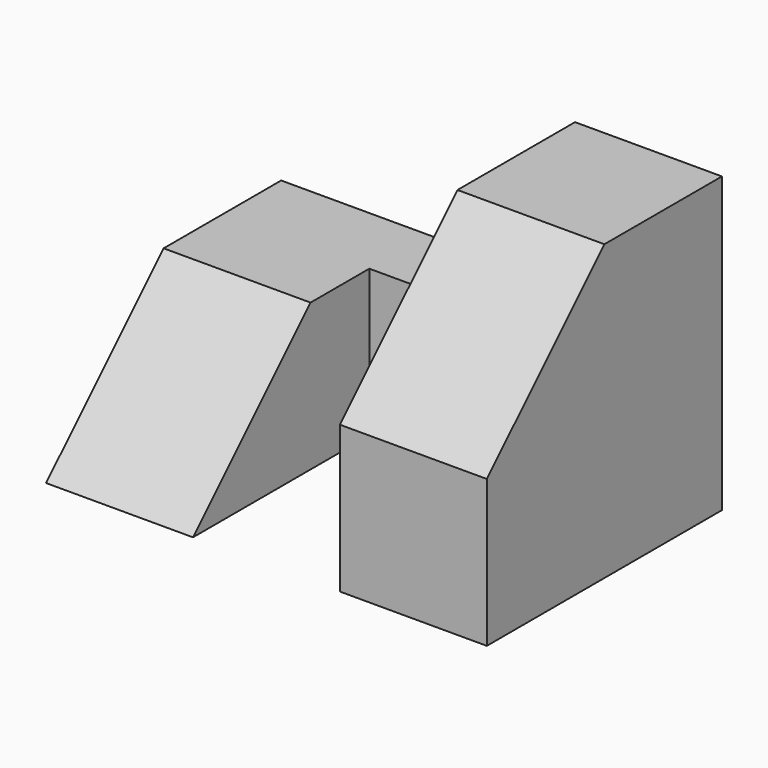
from build123d import *

# Parameters (mm, degrees)
F1_DEPTH = 38.1
F2_W     = 12.7
F2_H     = 19.05
F3_DEPTH = 25.4
F5_DEPTH = 25.4


with BuildPart() as f1:
    # F0 (on Right) → F1 (new body)
    with BuildSketch(Plane.YZ):
        Polygon((0, 12.7), (0, 0), (25.4, 0), (25.4, 25.4), (12.7, 25.4), align=None)
    extrude(amount=F1_DEPTH)

    # F2 (on Top) → F3 (cut)
    with BuildSketch(Plane.XY):
        with Locations((19.05, 9.525)):
            Rectangle(F2_W, F2_H)
    extrude(amount=F3_DEPTH, mode=Mode.SUBTRACT)

    # F4 (on Right) → F5 (cut)
    with BuildSketch(Plane.YZ):
        Polygon((0, 25.4), (0, 0), (12.7, 12.7), (25.4, 12.7), (25.4, 25.4), align=None)
    extrude(amount=F5_DEPTH, mode=Mode.SUBTRACT)


solid = f1.part
